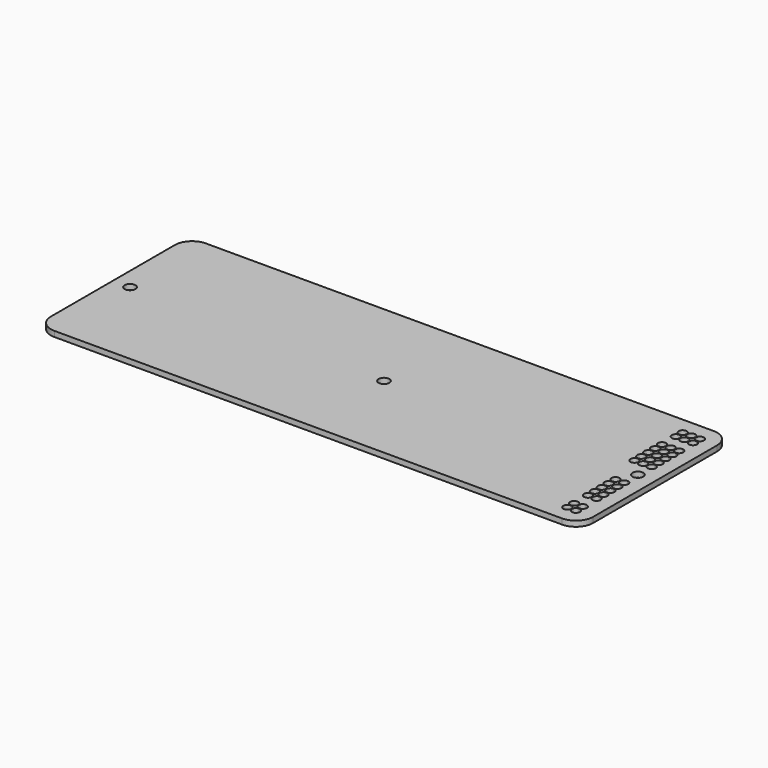
from build123d import *

# Parameters (mm, degrees)
F0_R     = 1.1938
F1_DEPTH = 1.6002
F2_D     = 3.175
F3_R     = 5.08


with BuildPart() as f1:
    # F0 (on Top) → F1 (new body)
    with BuildSketch(Plane.XY):
        Polygon((-94.253136, -22.86), (55.606864, -22.86), (60.686864, -22.86), (60.686864, 33.02), (55.606864, 33.02), (-94.253136, 33.02), (-99.333136, 33.02), (-99.333136, -22.86), align=None)
        with Locations((53.066864, -17.78)):
            Circle(F0_R, mode=Mode.SUBTRACT)
        with BuildLine():
            ThreePointArc((55.606864, -18.9738), (54.413064, -17.78), (55.606864, -16.5862))
            ThreePointArc((55.606864, -16.5862), (56.451008, -16.935856), (56.800664, -17.78))
            ThreePointArc((56.800664, -17.78), (56.451008, -18.624144), (55.606864, -18.9738))
        make_face(mode=Mode.SUBTRACT)
        with Locations((53.066864, -15.24)):
            Circle(F0_R, mode=Mode.SUBTRACT)
        with BuildLine():
            ThreePointArc((55.606864, -16.4338), (54.413064, -15.24), (55.606864, -14.0462))
            ThreePointArc((55.606864, -14.0462), (56.451008, -14.395856), (56.800664, -15.24))
            ThreePointArc((56.800664, -15.24), (56.451008, -16.084144), (55.606864, -16.4338))
        make_face(mode=Mode.SUBTRACT)
        with Locations((53.066864, -10.16)):
            Circle(F0_R, mode=Mode.SUBTRACT)
        with BuildLine():
            ThreePointArc((55.606864, -11.3538), (54.413064, -10.16), (55.606864, -8.9662))
            ThreePointArc((55.606864, -8.9662), (56.451008, -9.315856), (56.800664, -10.16))
            ThreePointArc((56.800664, -10.16), (56.451008, -11.004144), (55.606864, -11.3538))
        make_face(mode=Mode.SUBTRACT)
        with Locations((53.066864, -7.62)):
            Circle(F0_R, mode=Mode.SUBTRACT)
        with BuildLine():
            ThreePointArc((56.800664, -7.62), (56.451008, -8.464144), (55.606864, -8.8138))
            ThreePointArc((55.606864, -8.8138), (54.413064, -7.62), (55.606864, -6.4262))
            ThreePointArc((55.606864, -6.4262), (56.451008, -6.775856), (56.800664, -7.62))
        make_face(mode=Mode.SUBTRACT)
        with Locations((53.066864, -5.08)):
            Circle(F0_R, mode=Mode.SUBTRACT)
        with BuildLine():
            ThreePointArc((56.800664, -5.08), (56.451008, -5.924144), (55.606864, -6.2738))
            ThreePointArc((55.606864, -6.2738), (54.413064, -5.08), (55.606864, -3.8862))
            ThreePointArc((55.606864, -3.8862), (56.451008, -4.235856), (56.800664, -5.08))
        make_face(mode=Mode.SUBTRACT)
        with Locations((53.066864, -2.54)):
            Circle(F0_R, mode=Mode.SUBTRACT)
        with BuildLine():
            ThreePointArc((56.800664, -2.54), (56.451008, -3.384144), (55.606864, -3.7338))
            ThreePointArc((55.606864, -3.7338), (54.413064, -2.54), (55.606864, -1.3462))
            ThreePointArc((55.606864, -1.3462), (56.451008, -1.695856), (56.800664, -2.54))
        make_face(mode=Mode.SUBTRACT)
        with Locations((53.066864, 0)):
            Circle(F0_R, mode=Mode.SUBTRACT)
        with BuildLine():
            ThreePointArc((56.800664, 0), (56.451008, -0.844144), (55.606864, -1.1938))
            ThreePointArc((55.606864, -1.1938), (54.413064, 0), (55.606864, 1.1938))
            ThreePointArc((55.606864, 1.1938), (56.451008, 0.844144), (56.800664, 0))
        make_face(mode=Mode.SUBTRACT)
        with Locations((50.526864, 10.16)):
            Circle(F0_R, mode=Mode.SUBTRACT)
        with Locations((53.066864, 10.16)):
            Circle(F0_R, mode=Mode.SUBTRACT)
        with BuildLine():
            ThreePointArc((56.800664, 10.16), (56.451008, 9.315856), (55.606864, 8.9662))
            ThreePointArc((55.606864, 8.9662), (54.413064, 10.16), (55.606864, 11.3538))
            ThreePointArc((55.606864, 11.3538), (56.451008, 11.004144), (56.800664, 10.16))
        make_face(mode=Mode.SUBTRACT)
        with Locations((50.526864, 12.7)):
            Circle(F0_R, mode=Mode.SUBTRACT)
        with Locations((50.526864, 15.24)):
            Circle(F0_R, mode=Mode.SUBTRACT)
        with Locations((53.066864, 12.7)):
            Circle(F0_R, mode=Mode.SUBTRACT)
        with BuildLine():
            ThreePointArc((56.800664, 12.7), (56.451008, 11.855856), (55.606864, 11.5062))
            ThreePointArc((55.606864, 11.5062), (54.413064, 12.7), (55.606864, 13.8938))
            ThreePointArc((55.606864, 13.8938), (56.451008, 13.544144), (56.800664, 12.7))
        make_face(mode=Mode.SUBTRACT)
        with Locations((53.066864, 15.24)):
            Circle(F0_R, mode=Mode.SUBTRACT)
        with BuildLine():
            ThreePointArc((56.800664, 15.24), (56.451008, 14.395856), (55.606864, 14.0462))
            ThreePointArc((55.606864, 14.0462), (54.413064, 15.24), (55.606864, 16.4338))
            ThreePointArc((55.606864, 16.4338), (56.451008, 16.084144), (56.800664, 15.24))
        make_face(mode=Mode.SUBTRACT)
        with Locations((50.526864, 17.78)):
            Circle(F0_R, mode=Mode.SUBTRACT)
        with Locations((53.066864, 17.78)):
            Circle(F0_R, mode=Mode.SUBTRACT)
        with BuildLine():
            ThreePointArc((56.800664, 17.78), (56.451008, 16.935856), (55.606864, 16.5862))
            ThreePointArc((55.606864, 16.5862), (54.413064, 17.78), (55.606864, 18.9738))
            ThreePointArc((55.606864, 18.9738), (56.451008, 18.624144), (56.800664, 17.78))
        make_face(mode=Mode.SUBTRACT)
        with Locations((50.526864, 20.32)):
            Circle(F0_R, mode=Mode.SUBTRACT)
        with Locations((53.066864, 20.32)):
            Circle(F0_R, mode=Mode.SUBTRACT)
        with BuildLine():
            ThreePointArc((56.800664, 20.32), (56.451008, 19.475856), (55.606864, 19.1262))
            ThreePointArc((55.606864, 19.1262), (54.413064, 20.32), (55.606864, 21.5138))
            ThreePointArc((55.606864, 21.5138), (56.451008, 21.164144), (56.800664, 20.32))
        make_face(mode=Mode.SUBTRACT)
        with Locations((50.526864, 25.4)):
            Circle(F0_R, mode=Mode.SUBTRACT)
        with Locations((53.066864, 25.4)):
            Circle(F0_R, mode=Mode.SUBTRACT)
        with BuildLine():
            ThreePointArc((56.800664, 25.4), (56.451008, 24.555856), (55.606864, 24.2062))
            ThreePointArc((55.606864, 24.2062), (54.413064, 25.4), (55.606864, 26.5938))
            ThreePointArc((55.606864, 26.5938), (56.451008, 26.244144), (56.800664, 25.4))
        make_face(mode=Mode.SUBTRACT)
        with Locations((50.526864, 27.94)):
            Circle(F0_R, mode=Mode.SUBTRACT)
        with Locations((53.066864, 27.94)):
            Circle(F0_R, mode=Mode.SUBTRACT)
        with BuildLine():
            ThreePointArc((56.800664, 27.94), (56.451008, 27.095856), (55.606864, 26.7462))
            ThreePointArc((55.606864, 26.7462), (54.76272, 28.784144), (56.800664, 27.94))
        make_face(mode=Mode.SUBTRACT)
    extrude(amount=-F1_DEPTH)

    # F2 (through all)
    with Locations(Plane.XY):
        with Locations((-94.253136, 5.08), (-19.323136, 5.08), (55.606864, 5.08)):
            Hole(F2_D / 2)

    # F3
    f3_edges = [f1.edges().sort_by_distance(p)[0] for p in [
        (60.686864, -22.86, -0.8001),
        (60.686864, 33.02, -0.8001),
        (-99.333136, -22.86, -0.8001),
        (-99.333136, 33.02, -0.8001),
    ]]
    fillet(f3_edges, radius=F3_R)


solid = f1.part
